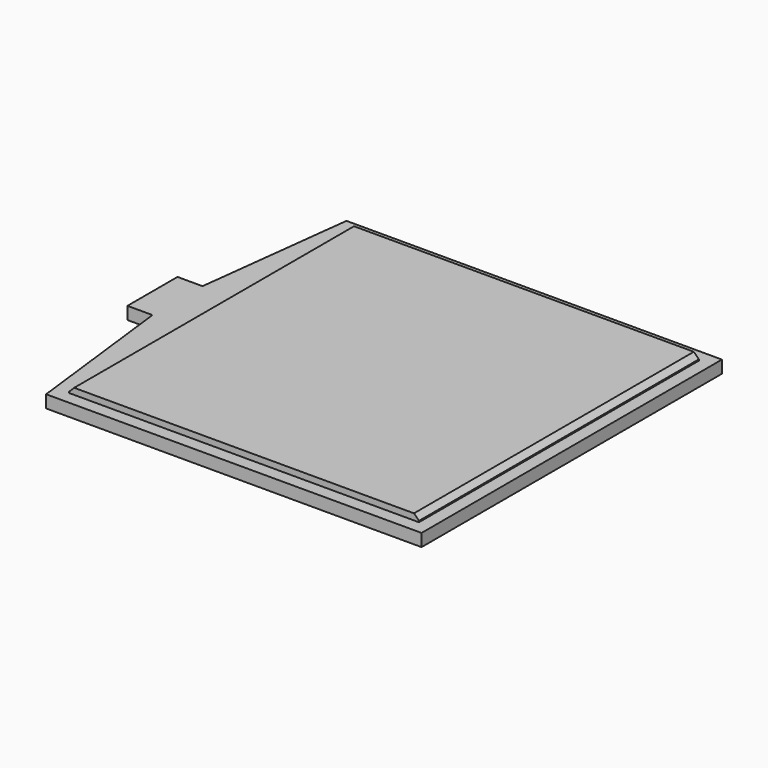
from build123d import *

# Parameters (mm, degrees)
PAD_DEPTH        = 2
SKETCH001_W      = 55.9
SKETCH001_H      = 55.9
PAD001_DEPTH     = 1
CHAMFER_SIZE2    = 0.8
CHAMFER_SIZE     = 0.8
CHAMFER001_SIZE2 = 0.8
CHAMFER001_SIZE  = 0.8


with BuildPart() as part:
    # Sketch → Pad (new body)
    with BuildSketch(Plane.XY):
        Polygon((0, 60), (60, 60), (60, 0), (0, 0), (-3, 25), (-7, 25), (-7, 35), (-3, 35), align=None)
    extrude(amount=PAD_DEPTH)

    # Sketch001 → Pad001 (join)
    with BuildSketch(Plane.XY.offset(2)):
        with Locations((30, 30)):
            Rectangle(SKETCH001_W, SKETCH001_H)
    extrude(amount=PAD001_DEPTH)

    # Chamfer
    chamfer_edges = [part.edges().sort_by_distance(p)[0] for p in [
        (2.05, 30, 3),
    ]]
    chamfer_side = part.faces().sort_by_distance((2.05, 30, 2.5))[0]
    chamfer(chamfer_edges, length=CHAMFER_SIZE, length2=CHAMFER_SIZE2, reference=chamfer_side)

    # Chamfer001
    chamfer001_edges = [part.edges().sort_by_distance(p)[0] for p in [
        (57.95, 30, 3),
    ]]
    chamfer001_side = part.faces().sort_by_distance((30.4, 30, 3))[0]
    chamfer(chamfer001_edges, length=CHAMFER001_SIZE, length2=CHAMFER001_SIZE2, reference=chamfer001_side)


solid = part.part
